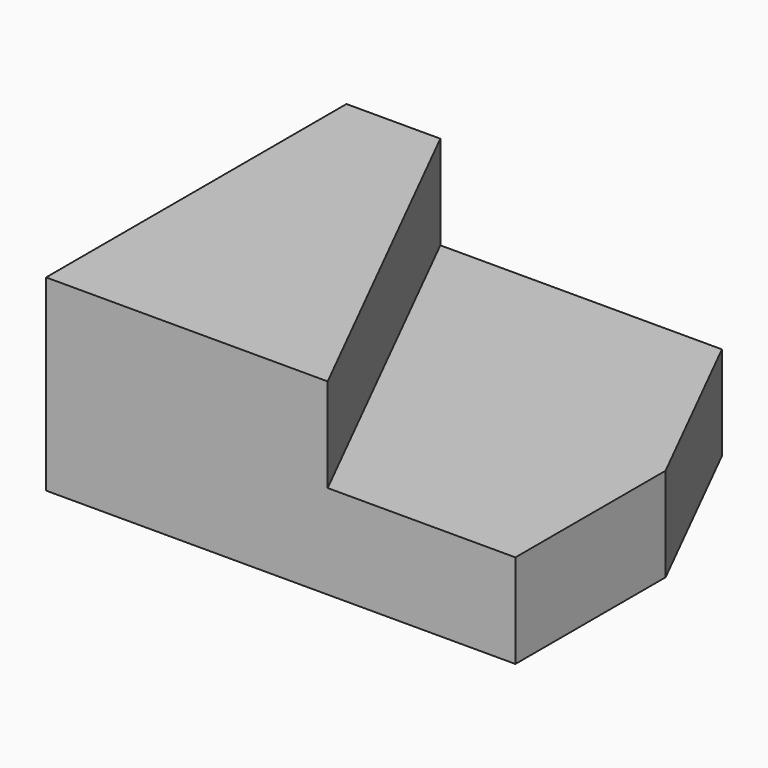
from build123d import *

# Parameters (mm, degrees)
F1_DEPTH = 6.35
F3_DEPTH = 6.35


with BuildPart() as f1:
    # F0 (on Top) → F1 (new body)
    with BuildSketch(Plane.XY):
        Polygon((-32.745679, 50.491136), (-58.145679, 50.491136), (-58.145679, 25.091136), (-26.395679, 25.091136), (-26.395679, 37.791136), align=None)
    extrude(amount=F1_DEPTH)

    # F2 (on face) → F3 (join)
    with BuildSketch(Plane.XY.offset(6.35)):
        Polygon((-51.795679, 50.491136), (-58.145679, 50.491136), (-58.145679, 25.091136), (-39.095679, 25.091136), align=None)
    extrude(amount=F3_DEPTH)


solid = f1.part
